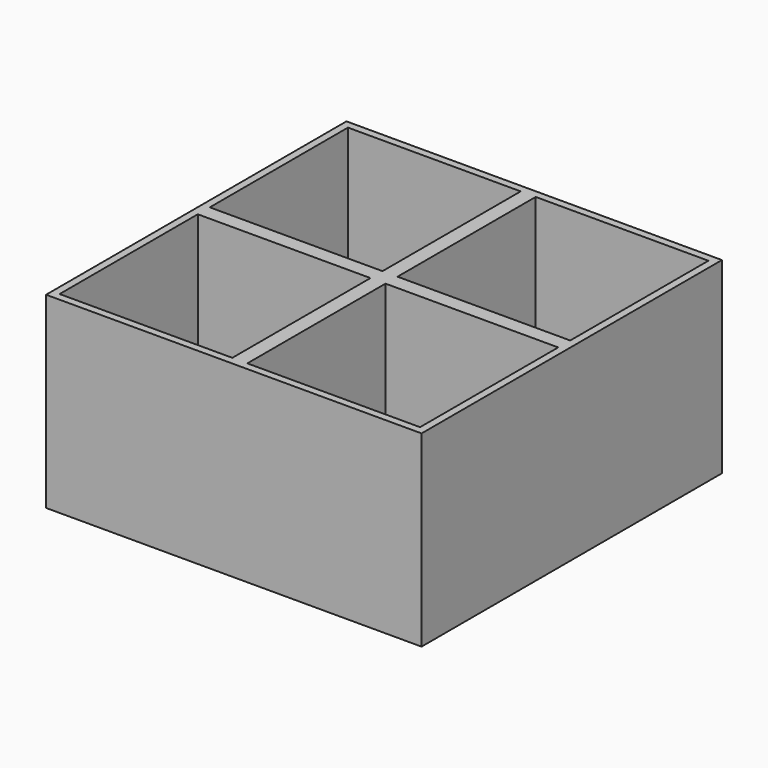
from build123d import *

# Parameters (mm, degrees)
F0_W     = 25.4
F0_H     = 25.4
F1_DEPTH = 25.4
F2_T     = -1.016
F3_W     = 8.128
F3_H     = 5.08
F4_DEPTH = 25.4


with BuildPart() as f1:
    # F0 (on Top) → F1 (new body)
    with BuildSketch(Plane.XY):
        with Locations((-25.182763, -12.716711)):
            Rectangle(F0_W, F0_H)
    extrude(amount=-F1_DEPTH)

    # F2
    f2_openings = [f1.faces().sort_by_distance(p)[0] for p in [
        (-25.182763, -12.716711, 0),
    ]]
    offset(amount=F2_T, openings=f2_openings)

    # F3 (on Top) → F4 (cut)
    with BuildSketch(Plane.XY):
        with Locations((-24.451679, -12.630123)):
            Rectangle(F3_W, F3_H)
    extrude(amount=-F4_DEPTH, mode=Mode.SUBTRACT)

    # F5: F1 across face


with BuildPart() as f1_1:
    add(f1.part)
    add(f1.part.mirror(Plane(origin=(-12.482763, -12.716711, -12.7), x_dir=(0, 1, 0), z_dir=(1, 0, 0))))

    # F6: F1 across face


with BuildPart() as f1_2:
    add(f1_1.part)
    add(f1_1.part.mirror(Plane(origin=(-12.482763, -25.416711, -12.7), x_dir=(1, 0, 0), z_dir=(0, -1, 0))))


solid = f1_2.part
